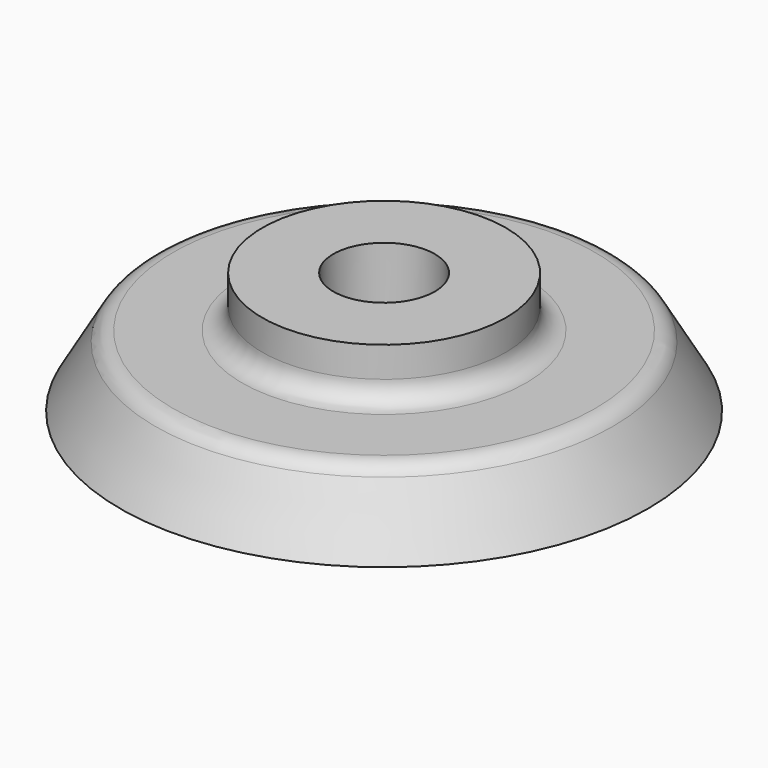
from build123d import *

# Parameters (mm, degrees)
F3_D           = 22
F3_CBORE_D     = 50
F3_CBORE_DEPTH = 30
F4_R           = 10


with BuildPart() as f1:
    # F0 (on Front) → F1 (revolve)
    with BuildSketch(Plane.XZ):
        Polygon((0, 60), (0, 0), (130, 0), (109.792741, 35), (60, 35), (60, 60), align=None)
    revolve(axis=Axis((0, 0, 30), (0, 0, 1)))

    # F3 (through all)
    with Locations(Plane.XY.offset(60)):
        with Locations((0, 0)):
            CounterBoreHole(F3_D / 2, F3_CBORE_D / 2, F3_CBORE_DEPTH)

    # F4
    f4_edges = [f1.edges().sort_by_distance(p)[0] for p in [
        (-60, 0, 35),
        (-109.792741, 0, 35),
    ]]
    fillet(f4_edges, radius=F4_R)


solid = f1.part
